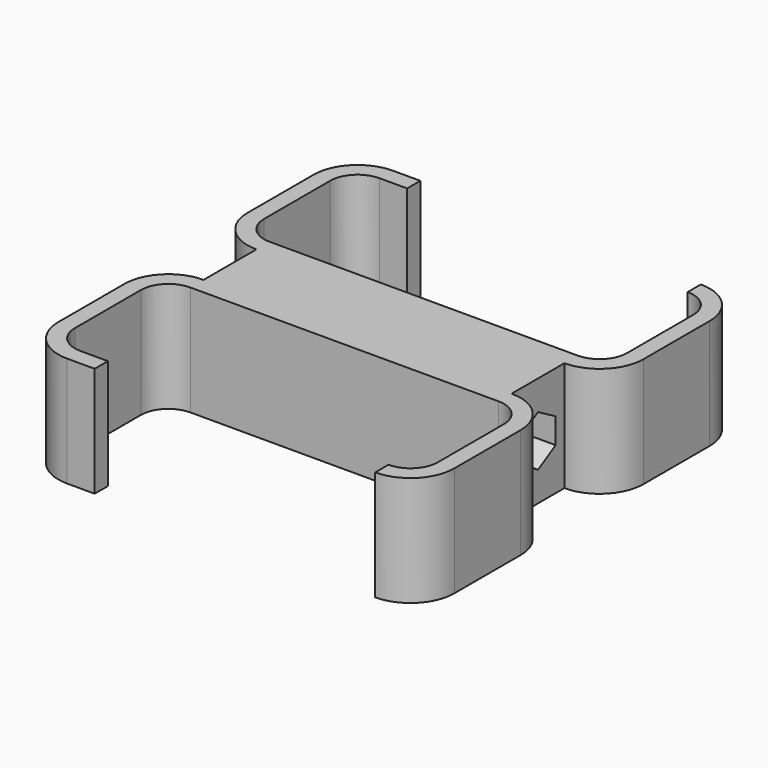
from build123d import *

# Parameters (mm, degrees)
F1_DEPTH = 20
F2_R     = 5.25
F3_DEPTH = 6
F5_DEPTH = 7
F6_R     = 2.75
F7_DEPTH = 58.001


with BuildPart() as f1:
    # F0 (on Top) → F1 (new body)
    with BuildSketch(Plane.XY):
        with BuildLine():
            ThreePointArc((-5, 0), (-8.535534, 1.464466), (-10, 5))
            Line((-10, 5), (-10, 20))
            ThreePointArc((-10, 20), (-8.535534, 23.535534), (-5, 25))
            Line((-5, 25), (51, 25))
            ThreePointArc((51, 25), (54.535534, 23.535534), (56, 20))
            Line((56, 20), (56, 5))
            ThreePointArc((56, 5), (54.535534, 1.464466), (51, 0))
            Line((51, 0), (51, -3))
            ThreePointArc((51, -3), (56.656854, -0.656854), (59, 5))
            Line((59, 5), (59, 20))
            ThreePointArc((59, 20), (56.656854, 25.656854), (51, 28))
            Line((51, 28), (51, 40))
            ThreePointArc((51, 40), (56.656854, 42.343146), (59, 48))
            Line((59, 48), (59, 63))
            ThreePointArc((59, 63), (56.656854, 68.656854), (51, 71))
            Line((51, 71), (51, 68))
            ThreePointArc((51, 68), (54.535534, 66.535534), (56, 63))
            Line((56, 63), (56, 48))
            ThreePointArc((56, 48), (54.535534, 44.464466), (51, 43))
            Line((51, 43), (-5, 43))
            ThreePointArc((-5, 43), (-8.535534, 44.464466), (-10, 48))
            Line((-10, 48), (-10, 63))
            ThreePointArc((-10, 63), (-8.535534, 66.535534), (-5, 68))
            Line((-5, 68), (0, 68))
            Line((0, 68), (0, 71))
            Line((0, 71), (-5, 71))
            ThreePointArc((-5, 71), (-10.656854, 68.656854), (-13, 63))
            Line((-13, 63), (-13, 48))
            ThreePointArc((-13, 48), (-10.656854, 42.343146), (-5, 40))
            Line((-5, 40), (-5, 28))
            ThreePointArc((-5, 28), (-10.656854, 25.656854), (-13, 20))
            Line((-13, 20), (-13, 5))
            ThreePointArc((-13, 5), (-10.656854, -0.656854), (-5, -3))
            Line((-5, -3), (0, -3))
            Line((0, -3), (0, 0))
            Line((0, 0), (-5, 0))
        make_face()
    extrude(amount=F1_DEPTH)

    # F2 (on face) → F3 (cut)
    with BuildSketch(Plane(origin=(-5, 0, 0), x_dir=(0, -1, 0), z_dir=(-1, 0, 0))):
        with Locations((-34, 10)):
            Circle(F2_R)
    extrude(amount=-F3_DEPTH, mode=Mode.SUBTRACT)

    # F4 (on face) → F5 (cut)
    with BuildSketch(Plane.YZ.offset(51)):
        Polygon((38, 7.690599), (38, 12.309401), (34, 14.618802), (30, 12.309401), (30, 7.690599), (34, 5.381198), align=None)
    extrude(amount=-F5_DEPTH, mode=Mode.SUBTRACT)

    # F6 (on face) → F7 (cut, through all)
    with BuildSketch(Plane(origin=(1, 0, 0), x_dir=(0, -1, 0), z_dir=(-1, 0, 0))):
        with Locations((-34, 10)):
            Circle(F6_R)
    extrude(amount=-F7_DEPTH, mode=Mode.SUBTRACT)


solid = f1.part
